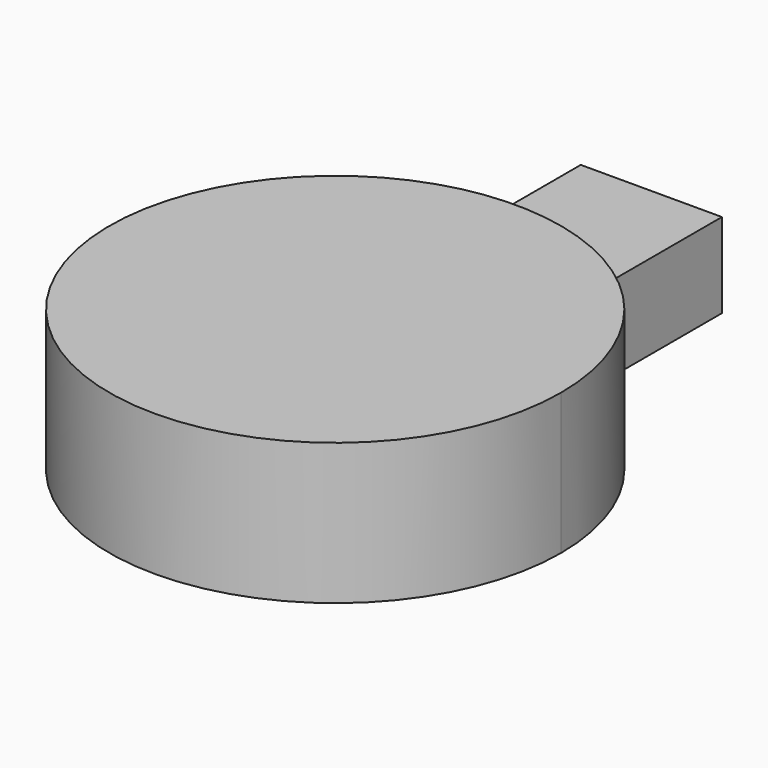
from build123d import *

# Parameters (mm, degrees)
F1_DEPTH = 3.175
F2_DEPTH = 1.905


with BuildPart() as f1:
    # F0 (on Top) → F1 (new body)
    with BuildSketch(Plane.XY):
        with BuildLine():
            ThreePointArc((-1.5875, 4.825582), (-2.978414, -4.11527), (5.08, 0))
            ThreePointArc((5.08, 0), (4.11527, 2.978414), (1.5875, 4.825582))
            ThreePointArc((1.5875, 4.825582), (0, 5.08), (-1.5875, 4.825582))
        make_face()
    extrude(amount=F1_DEPTH)

    # F0 (on Top) → F2 (join)
    with BuildSketch(Plane.XY):
        with BuildLine():
            ThreePointArc((-1.5875, 4.825582), (0, 5.08), (1.5875, 4.825582))
            Line((1.5875, 4.825582), (1.5875, 8.89))
            Line((1.5875, 8.89), (-1.5875, 8.89))
            Line((-1.5875, 8.89), (-1.5875, 4.825582))
        make_face()
    extrude(amount=F2_DEPTH)


solid = f1.part
